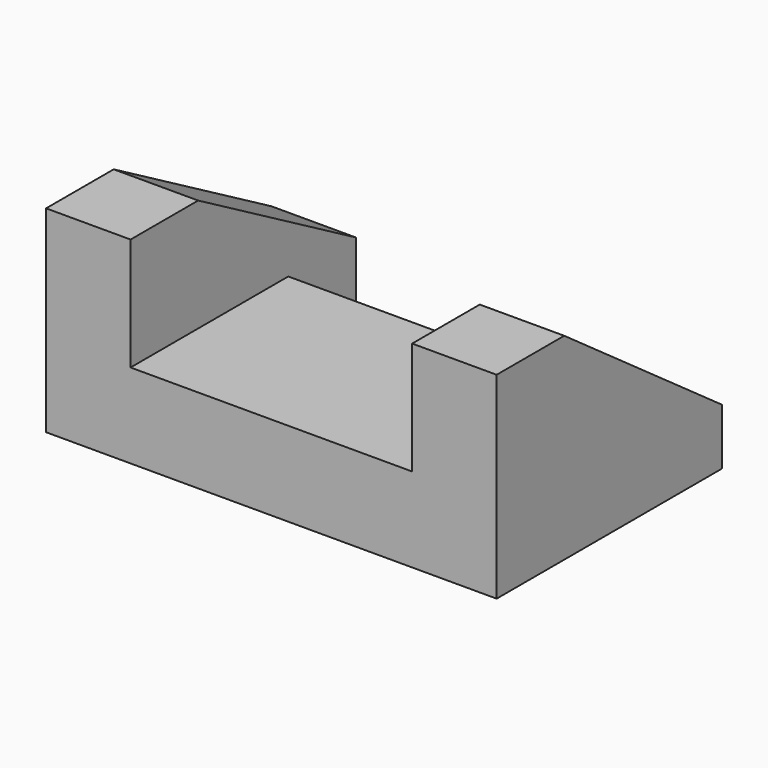
from build123d import *

# Parameters (mm, degrees)
F0_W     = 63.5
F0_H     = 44.45
F1_DEPTH = 19.05
F3_DEPTH = 19.05
F4_W     = 44.45
F4_H     = 19.05
F5_DEPTH = 19.05


with BuildPart() as f1:
    # F0 (on Top) → F1 (new body)
    with BuildSketch(Plane.XY):
        with Locations((-31.75, 22.225)):
            Rectangle(F0_W, F0_H)
    extrude(amount=F1_DEPTH)

    # F2 (on Right) → F3 (join)
    with BuildSketch(Plane.YZ):
        Polygon((0, 44.45), (0, 0), (63.5, 0), (63.5, 12.7), (19.05, 44.45), align=None)
    extrude(amount=F3_DEPTH)

    # F4 (on face) → F5 (join)
    with BuildSketch(Plane(origin=(-63.5, 0, 0), x_dir=(0, -1, 0), z_dir=(-1, 0, 0))):
        Polygon((-44.45, 19.05), (0, 19.05), (0, 44.45), (-19.05, 44.45), (-63.5, 19.05), (-63.5, 0), (-44.45, 0), align=None)
        with Locations((-22.225, 9.525)):
            Rectangle(F4_W, F4_H)
    extrude(amount=F5_DEPTH)


solid = f1.part
